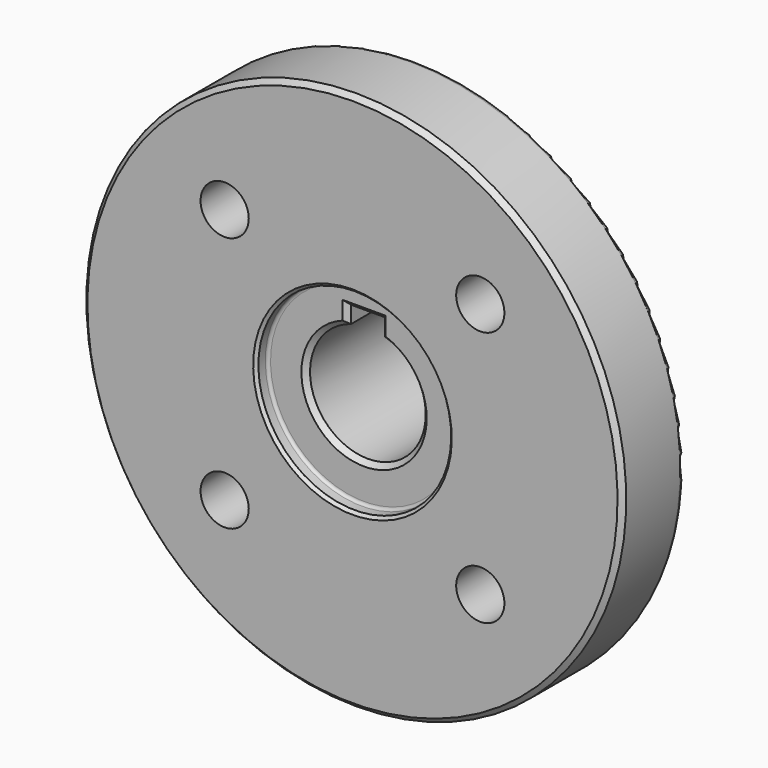
from build123d import *

# Parameters (mm, degrees)
F2_W     = 7
F2_H     = 7
F3_DEPTH = 40.001
F5_D     = 10
F6_SIZE  = 1
F7_SIZE  = 0.6
F8_R     = 0.6
F9_SIZE  = 1
F10_R    = 1
F11_R    = 2


with BuildPart() as f1:
    # F0 (on Right) → F1 (revolve)
    with BuildSketch(Plane.YZ):
        Polygon((0, 56), (0, 20), (3, 20), (3, 12), (40, 12), (40, 22.5), (16, 22.5), (16, 56), align=None)
    revolve(axis=Axis((0, 11.147524, 0), (0, 1, 0)))

    # F2 (on face) → F3 (cut, through all)
    with BuildSketch(Plane(origin=(0, 40, 0), x_dir=(-1, 0, 0), z_dir=(0, 1, 0))):
        with Locations((0, 11.5)):
            Rectangle(F2_W, F2_H)
    extrude(amount=-F3_DEPTH, mode=Mode.SUBTRACT)

    # F5 (through all)
    with Locations(Plane(origin=(0, 16, 0), x_dir=(-1, 0, 0), z_dir=(0, 1, 0))):
        with Locations((26.516504, 26.516504), (-26.516504, 26.516504), (-26.516504, -26.516504), (26.516504, -26.516504)):
            Hole(F5_D / 2)

    # F6
    f6_edges = [f1.edges().sort_by_distance(p)[0] for p in [
        (0, 3, -12),
        (-3.5, 40, 13.23912),
        (0, 40, 15),
        (3.5, 40, 13.23912),
        (-3.5, 3, 13.23912),
        (0, 40, -12),
        (3.5, 3, 13.23912),
        (0, 3, 15),
    ]]
    chamfer(f6_edges, length=F6_SIZE)

    # F7
    f7_edges = [f1.edges().sort_by_distance(p)[0] for p in [
        (0, 0, -20),
    ]]
    chamfer(f7_edges, length=F7_SIZE)

    # F8
    f8_edges = [f1.edges().sort_by_distance(p)[0] for p in [
        (0, 3, -20),
    ]]
    fillet(f8_edges, radius=F8_R)

    # F9
    f9_edges = [f1.edges().sort_by_distance(p)[0] for p in [
        (0, 0, -56),
    ]]
    chamfer(f9_edges, length=F9_SIZE)

    # F10
    f10_edges = [f1.edges().sort_by_distance(p)[0] for p in [
        (0, 16, -56),
    ]]
    fillet(f10_edges, radius=F10_R)

    # F11
    f11_edges = [f1.edges().sort_by_distance(p)[0] for p in [
        (0, 40, -22.5),
        (0, 16, -22.5),
    ]]
    fillet(f11_edges, radius=F11_R)


solid = f1.part
